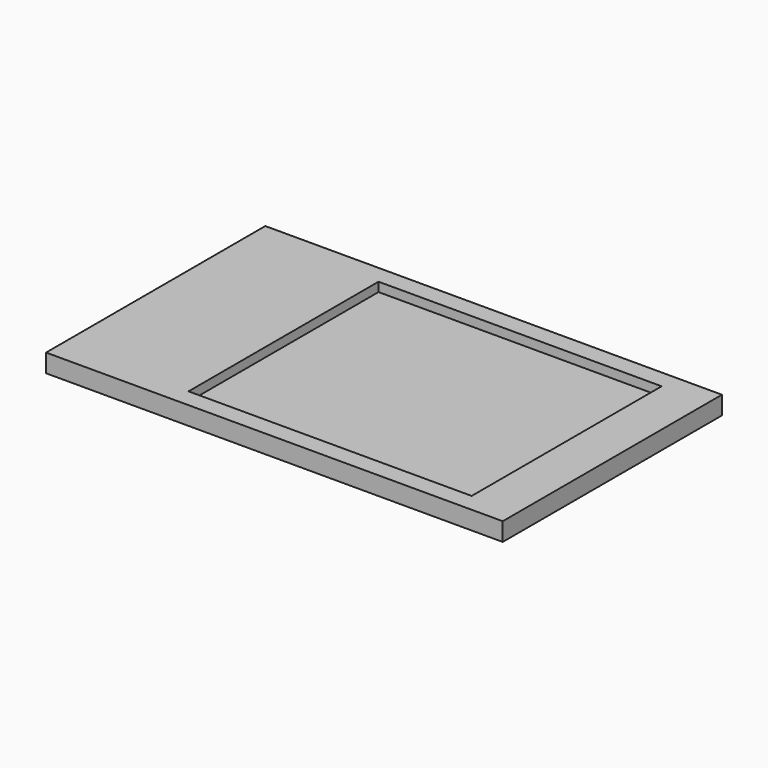
from build123d import *

# Parameters (mm, degrees)
F0_W     = 250
F0_H     = 150
F0_W_2   = 155
F0_H_2   = 130
F1_DEPTH = 10
F2_DEPTH = 5


with BuildPart() as f1:
    # F0 (on Top) → F1 (new body)
    with BuildSketch(Plane.XY):
        Rectangle(F0_W, F0_H)
        with Locations((22.5, 0)):
            Rectangle(F0_W_2, F0_H_2, mode=Mode.SUBTRACT)
        with Locations((22.5, 0)):
            Rectangle(F0_W_2, F0_H_2)
    extrude(amount=-F1_DEPTH)

    # F0 (on Top) → F2 (cut)
    with BuildSketch(Plane.XY):
        with Locations((22.5, 0)):
            Rectangle(F0_W_2, F0_H_2)
    extrude(amount=-F2_DEPTH, mode=Mode.SUBTRACT)


solid = f1.part
